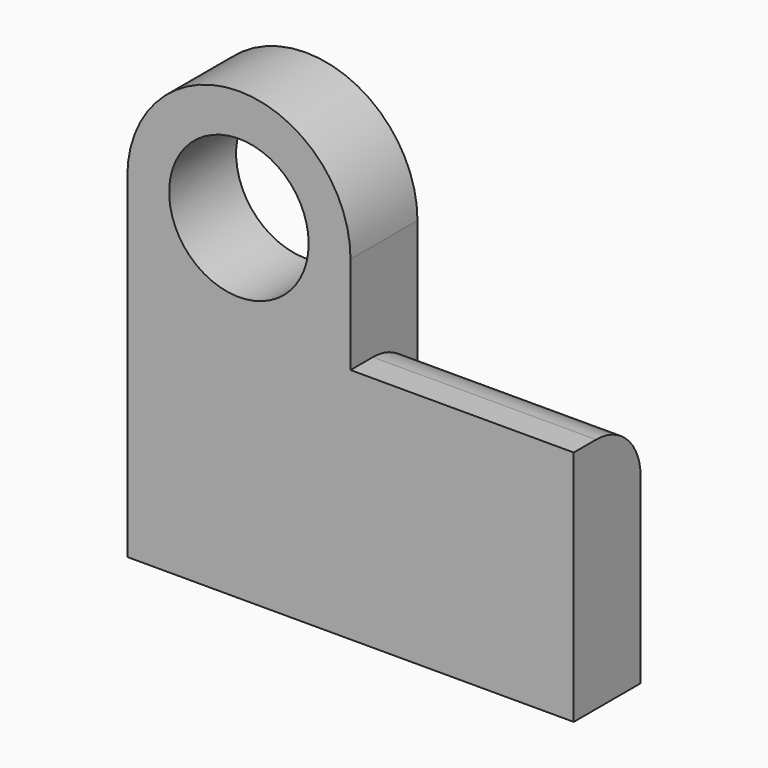
from build123d import *

# Parameters (mm, degrees)
F1_DEPTH = 38.1
F2_R     = 25.4
F3_R     = 31.75
F4_DEPTH = 50.8


with BuildPart() as f1:
    # F0 (on Front) → F1 (new body)
    with BuildSketch(Plane.XZ):
        with BuildLine():
            ThreePointArc((-27.599881, 62.391328), (-78.399881, 113.191328), (-129.199881, 62.391328))
            Line((-129.199881, 62.391328), (-129.199881, -90.008672))
            Line((-129.199881, -90.008672), (74.000119, -90.008672))
            Line((74.000119, -90.008672), (74.000119, 17.941328))
            Line((74.000119, 17.941328), (-27.599881, 17.941328))
            Line((-27.599881, 17.941328), (-27.599881, 62.391328))
        make_face()
    extrude(amount=F1_DEPTH)

    # F2
    f2_edges = [f1.edges().sort_by_distance(p)[0] for p in [
        (23.200119, 0, 17.941328),
    ]]
    fillet(f2_edges, radius=F2_R)

    # F3 (on face) → F4 (cut)
    with BuildSketch(Plane.XZ.offset(38.1)):
        with Locations((-78.399881, 62.391328)):
            Circle(F3_R)
    extrude(amount=-F4_DEPTH, mode=Mode.SUBTRACT)


solid = f1.part
